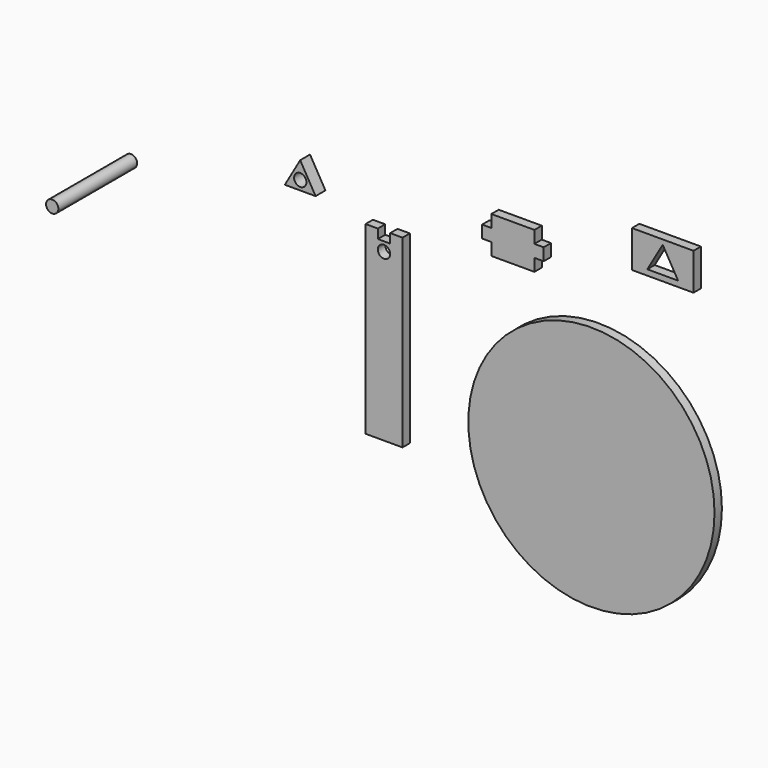
from build123d import *

# Parameters (mm, degrees)
F0_R      = 12.7
F1_DEPTH  = 19.05
F2_W      = 127
F2_H      = 76.2
F3_DEPTH  = 19.05
F4_R      = 254
F5_DEPTH  = 19.05
F6_W      = 127
F6_H      = 76.2
F7_DEPTH  = 19.05
F8_W      = 25.4
F8_H      = 19.05
F9_DEPTH  = 25.4
F10_W     = 19.05
F10_H     = 25.4
F11_DEPTH = 25.4
F12_R     = 12.7
F13_DEPTH = 25.4
F14_R     = 12.7
F15_DEPTH = 203.2


with BuildPart() as f1:
    # F0 (on Front) → F1 (new body)
    with BuildSketch(Plane.XZ):
        Polygon((-69.826509, 327.536668), (-82.526509, 327.536668), (-82.526509, 308.486668), (-69.826509, 308.486668), (-57.126509, 308.486668), (-57.126509, 327.536668), align=None)
        Polygon((-69.826509, 308.486668), (-82.526509, 308.486668), (-82.526509, -53.463332), (-6.326509, -53.463332), (-6.326509, 308.486668), (-19.026509, 308.486668), (-31.726509, 308.486668), (-44.426509, 308.486668), (-57.126509, 308.486668), align=None)
        with Locations((-44.426509, 289.436668)):
            Circle(F0_R, mode=Mode.SUBTRACT)
        Polygon((-44.426509, 327.536668), (-57.126509, 327.536668), (-57.126509, 308.486668), (-44.426509, 308.486668), (-31.726509, 308.486668), (-31.726509, 327.536668), align=None)
        Polygon((-19.026509, 327.536668), (-31.726509, 327.536668), (-31.726509, 308.486668), (-19.026509, 308.486668), (-6.326509, 308.486668), (-6.326509, 327.536668), align=None)
        Polygon((-44.426509, 327.536668), (-57.126509, 327.536668), (-57.126509, 308.486668), (-44.426509, 308.486668), (-31.726509, 308.486668), (-31.726509, 327.536668), align=None)
    extrude(amount=F1_DEPTH)

    # F8 (on face) → F9 (cut)
    with BuildSketch(Plane.XZ.offset(19.05)):
        with Locations((-44.426509, 318.011668)):
            Rectangle(F8_W, F8_H)
    extrude(amount=-F9_DEPTH, mode=Mode.SUBTRACT)


with BuildPart() as f3:
    # F2 (on Front) → F3 (new body)
    with BuildSketch(Plane.XZ):
        with Locations((221.385913, 392.006751)):
            Rectangle(F2_W, F2_H)
    extrude(amount=F3_DEPTH)

    # F10 (on face) → F11 (cut)
    with BuildSketch(Plane.XZ.offset(19.05)):
        with Locations((167.410913, 417.406751)):
            Rectangle(F10_W, F10_H)
        with Locations((167.410913, 366.606751)):
            Rectangle(F10_W, F10_H)
        with Locations((275.360913, 366.606751)):
            Rectangle(F10_W, F10_H)
        with Locations((275.360913, 417.406751)):
            Rectangle(F10_W, F10_H)
    extrude(amount=-F11_DEPTH, mode=Mode.SUBTRACT)


with BuildPart() as f5:
    # F4 (on Front) → F5 (new body)
    with BuildSketch(Plane.XZ):
        with Locations((383.458091, 37.251746)):
            Circle(F4_R)
    extrude(amount=F5_DEPTH)


with BuildPart() as f7:
    # F6 (on Front) → F7 (new body)
    with BuildSketch(Plane.XZ):
        with Locations((530.57965, 460.841115)):
            Rectangle(F6_W, F6_H)
        Polygon((562.32965, 434.353173), (498.82965, 434.353173), (530.57965, 489.345786), align=None, mode=Mode.SUBTRACT)
    extrude(amount=F7_DEPTH)


with BuildPart() as f13:
    # F12 (on Front) → F13 (new body)
    with BuildSketch(Plane.XZ):
        Polygon((-212.246575, 403.846291), (-243.996575, 348.853678), (-180.496575, 348.853678), align=None)
        with Locations((-212.111169, 367.903678)):
            Circle(F12_R, mode=Mode.SUBTRACT)
    extrude(amount=F13_DEPTH)


with BuildPart() as f15:
    # F14 (on Front) → F15 (new body)
    with BuildSketch(Plane.XZ):
        with Locations((-581.568241, 271.849304)):
            Circle(F14_R)
    extrude(amount=F15_DEPTH)


solid = Compound([f1.part, f3.part, f5.part, f7.part, f13.part, f15.part])
